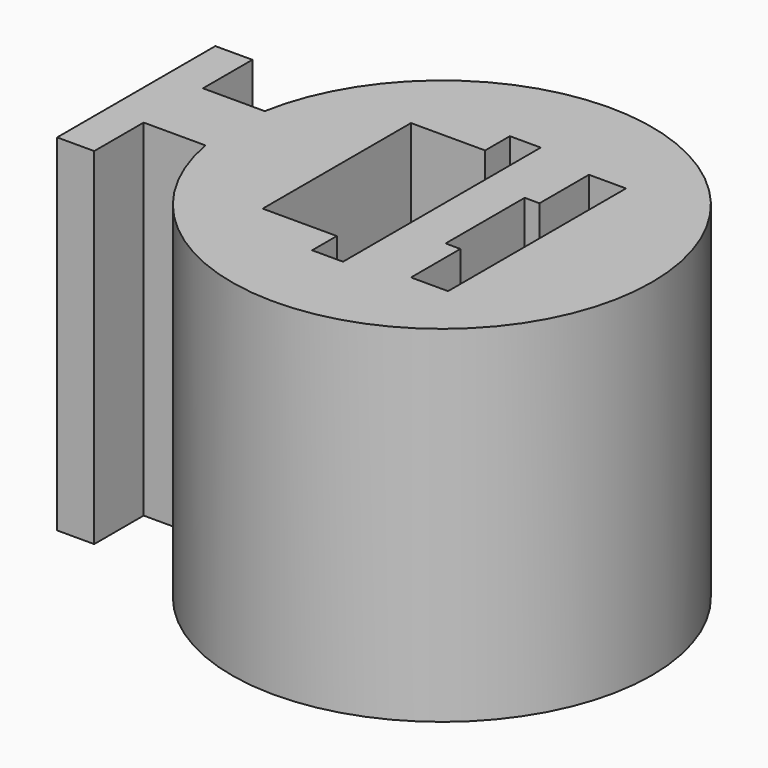
from build123d import *

# Parameters (mm, degrees)
PAD006_DEPTH            = 28
SKETCH015_W             = 8
SKETCH015_H             = 3
SKETCH015_W_2           = 15
SKETCH015_H_2           = 6
POCKET006_DEPTH         = 28.001
SKETCH016_W             = 20
SKETCH016_H             = 2.5
SKETCH016_W_2           = 18
SKETCH016_H_2           = 3
POCKET007_DEPTH         = 27.001
BODY005_PLACEMENT_ANGLE = 90


with BuildPart() as part:
    # Sketch014 → Pad006 (new body)
    with BuildSketch(Plane.XY):
        with BuildLine():
            Line((-3, -3), (-8, -3))
            Line((-8, -3), (-8, 0))
            Line((-8, 0), (8, 0))
            Line((8, 0), (8, -3))
            Line((8, -3), (3, -3))
            Line((3, -3), (3, -8))
            ThreePointArc((-3, -8), (0, -41.733201), (3, -8))
            Line((-3, -3), (-3, -8))
        make_face()
    extrude(amount=PAD006_DEPTH)

    # Sketch015 (on Face9 of Pad006) → Pocket006 (cut, through all)
    with BuildSketch(Plane(origin=(0, 0, 0), x_dir=(1, 0, 0), z_dir=(0, 0, -1))):
        with Locations((0, 29.733201)):
            Rectangle(SKETCH015_W, SKETCH015_H)
        with Locations((0, 19.233201)):
            Rectangle(SKETCH015_W_2, SKETCH015_H_2)
    extrude(amount=-POCKET006_DEPTH, mode=Mode.SUBTRACT)

    # Sketch016 (on Face4 of Pocket006) → Pocket007 (cut, through all)
    with BuildSketch(Plane(origin=(0, 0, 1), x_dir=(1, 0, 0), z_dir=(0, 0, -1))):
        with Locations((0, 23.483201)):
            Rectangle(SKETCH016_W, SKETCH016_H)
        with Locations((0, 30.933201)):
            Rectangle(SKETCH016_W_2, SKETCH016_H_2)
    extrude(amount=-POCKET007_DEPTH, mode=Mode.SUBTRACT)


with BuildPart() as part_1:
    # Body005 placement: moved
    add(part.part.moved(Location((32.5, 0, -60))).rotate(Axis((32.5, 0, -60), (0, 0, 1)), BODY005_PLACEMENT_ANGLE))


solid = part_1.part
